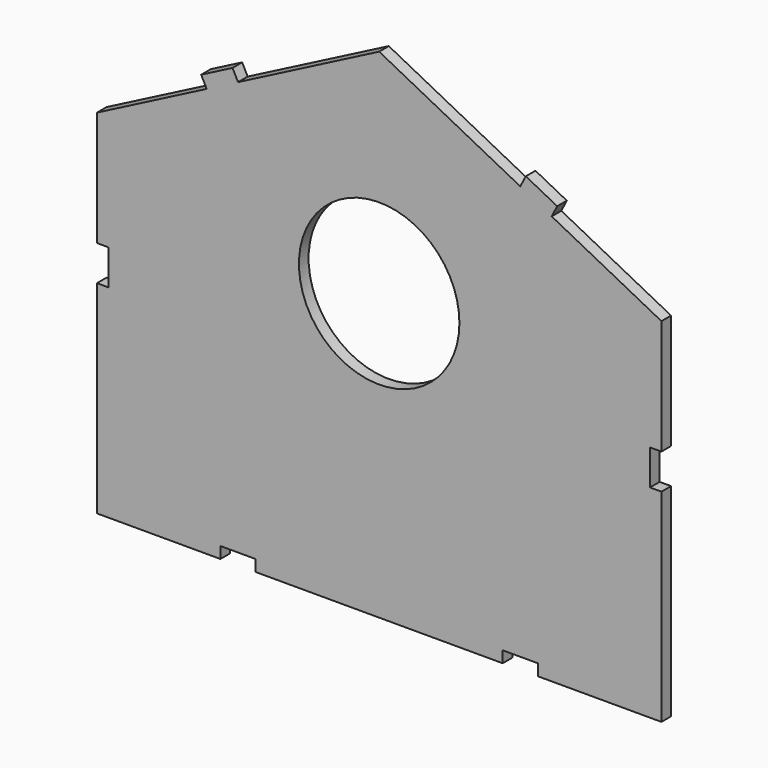
from build123d import *

# Parameters (mm, degrees)
F0_W     = 12.7
F0_H     = 4.3434
F1_DEPTH = 4.3434
F2_W     = 4.3434
F2_H     = 12.7
F3_DEPTH = 4.3444
F4_R     = 28.880577
F5_DEPTH = 4.3444
F7_DEPTH = 4.3444


with BuildPart() as f1:
    # F0 (on Front) → F1 (new body)
    with BuildSketch(Plane.XZ):
        Polygon((50.8, 74.088349), (0, 100.27007), (-50.8, 74.088349), (-62.088889, 68.270189), (-101.6, 47.906629), (-101.6, -79.093371), (-57.15, -79.093371), (-57.15, -74.749971), (-44.45, -74.749971), (-44.45, -79.093371), (44.45, -79.093371), (44.45, -74.749971), (57.15, -74.749971), (57.15, -79.093371), (101.6, -79.093371), (101.6, 47.906629), (62.088889, 68.270189), align=None)
        Polygon((-62.088889, 68.270189), (-50.8, 74.088349), (-52.789811, 77.949149), (-64.0787, 72.130989), align=None)
        Polygon((52.789811, 77.949149), (50.8, 74.088349), (62.088889, 68.270189), (64.0787, 72.130989), align=None)
        with Locations((-50.8, -76.921671)):
            Rectangle(F0_W, F0_H)
        Polygon((50.8, -79.093371), (57.15, -79.093371), (57.15, -74.749971), (44.45, -74.749971), (44.45, -79.093371), align=None)
    extrude(amount=-F1_DEPTH)

    # F2 (on Front) → F3 (cut, through all)
    with BuildSketch(Plane.XZ):
        with Locations((-99.660009, 0.220258)):
            Rectangle(F2_W, F2_H)
        with Locations((99.660009, 0.220258)):
            Rectangle(F2_W, F2_H)
    extrude(amount=-F3_DEPTH, mode=Mode.SUBTRACT)

    # F4 (on Front) → F5 (cut, through all)
    with BuildSketch(Plane.XZ):
        with Locations((0, 23.649074)):
            Circle(F4_R)
    extrude(amount=-F5_DEPTH, mode=Mode.SUBTRACT)

    # F6 (on Front) → F7 (cut, through all)
    with BuildSketch(Plane.XZ):
        Polygon((-57.15, -79.316832), (-50.8, -79.316832), (-44.45, -79.316832), (-44.45, -74.973432), (-50.8, -74.973432), (-57.15, -74.973432), align=None)
        Polygon((57.15, -79.316832), (57.15, -74.973432), (50.8, -74.973432), (44.45, -74.973432), (44.45, -79.316832), (50.8, -79.316832), align=None)
    extrude(amount=-F7_DEPTH, mode=Mode.SUBTRACT)


solid = f1.part
